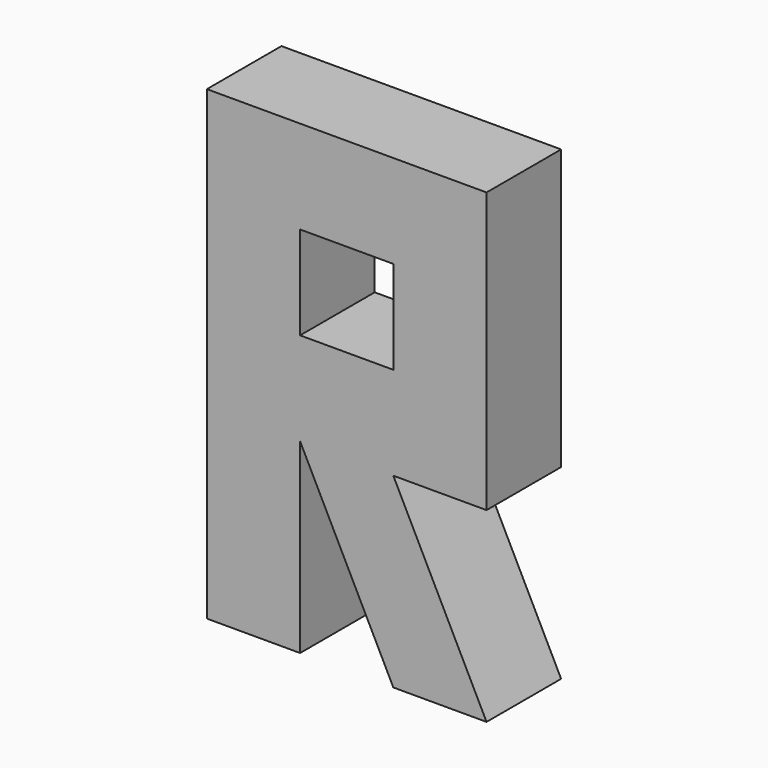
from build123d import *

# Parameters (mm, degrees)
F0_W     = 40
F0_H     = 40
F1_DEPTH = 40


with BuildPart() as f1:
    # F0 (on Front) → F1 (new body)
    with BuildSketch(Plane.XZ):
        with Locations((-40, 80)):
            Rectangle(F0_W, F0_H)
        with Locations((0, 80)):
            Rectangle(F0_W, F0_H)
        with Locations((40, 80)):
            Rectangle(F0_W, F0_H)
        with Locations((40, 40)):
            Rectangle(F0_W, F0_H)
        with Locations((40, 0)):
            Rectangle(F0_W, F0_H)
        Rectangle(F0_W, F0_H)
        with Locations((-40, 0)):
            Rectangle(F0_W, F0_H)
        with Locations((-40, -40)):
            Rectangle(F0_W, F0_H)
        with Locations((-40, -80)):
            Rectangle(F0_W, F0_H)
        with Locations((-40, 40)):
            Rectangle(F0_W, F0_H)
        Polygon((20, -60), (20, -20), (-20, -20), (0, -60), align=None)
        Polygon((40, -60), (20, -60), (20, -100), (60, -100), align=None)
        Polygon((20, -100), (20, -60), (0, -60), align=None)
        Polygon((40, -60), (20, -20), (20, -60), align=None)
    extrude(amount=F1_DEPTH)


solid = f1.part
